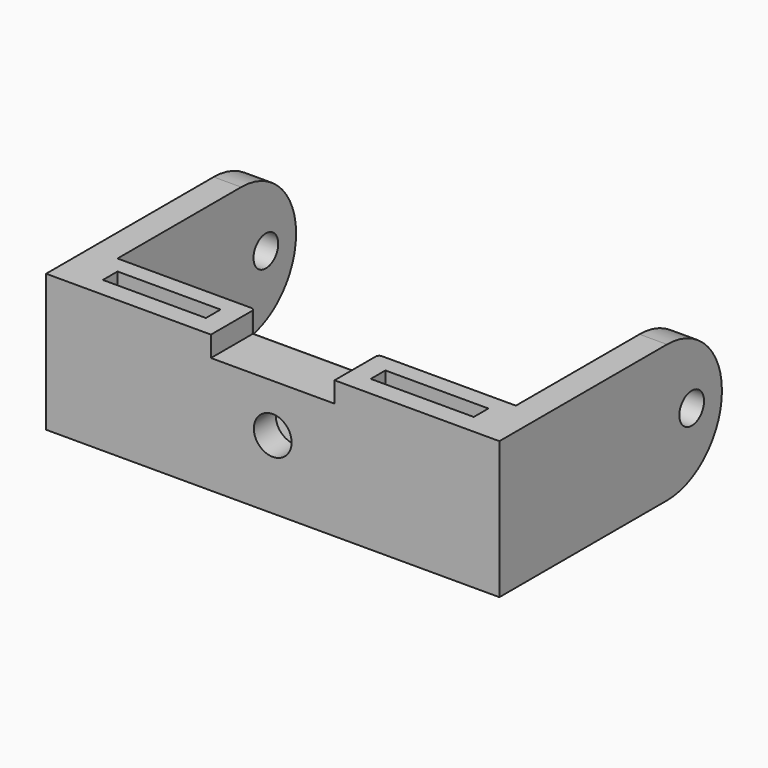
from build123d import *

# Parameters (mm, degrees)
SKETCH005_W             = 58
SKETCH005_H             = 20
SKETCH005_R             = 2.75
PAD004_DEPTH            = 8
SKETCH006_R             = 2.25
PAD005_DEPTH            = 4
POCKET005_DEPTH         = 4
SKETCH011_W             = 15
SKETCH011_H             = 2.666667
POCKET007_DEPTH         = 20
SKETCH012_W             = 18
SKETCH012_H             = 3
POCKET008_DEPTH         = 8
FILLET_R                = 0.5
BODY002_PLACEMENT_ANGLE = 180


with BuildPart() as part:
    # Sketch005 → Pad004 (new body)
    with BuildSketch(Plane.XZ):
        Rectangle(SKETCH005_W, SKETCH005_H)
        Circle(SKETCH005_R, mode=Mode.SUBTRACT)
    extrude(amount=PAD004_DEPTH)

    # Sketch006 (on Face4 of Pad004) → Pad005 (join)
    with BuildSketch(Plane(origin=(-29, 0, 0), x_dir=(0, 0, -1), z_dir=(-1, 0, 0))):
        with BuildLine():
            Line((-10, 0), (10, 0))
            Line((10, 0), (10, 30.5))
            ThreePointArc((10, 30.5), (0, 40.5), (-10, 30.5))
            Line((-10, 30.5), (-10, 0))
        make_face()
        with Locations((0, 35)):
            Circle(SKETCH006_R, mode=Mode.SUBTRACT)
    pad005 = extrude(amount=PAD005_DEPTH)

    # Mirrored003: Pad005 across YZ
    add(pad005.mirror(Plane.YZ))

    # Sketch007 (on Face5 of Mirrored003) → Pocket005 (cut)
    with BuildSketch(Plane.XZ.offset(8)):
        Polygon((2.374981, 4.113632), (-2.375019, 4.11361), (-4.75, -2.2e-05), (-2.374981, -4.113632), (2.375019, -4.11361), (4.75, 2.2e-05), align=None)
    extrude(amount=-POCKET005_DEPTH, mode=Mode.SUBTRACT)

    # Sketch011 (on Face14 of Pocket005) → Pocket007 (cut)
    with BuildSketch(Plane(origin=(0, 0, 10), x_dir=(-1, 0, 0), z_dir=(0, 0, 1))):
        with Locations((-19.5, 4.169504)):
            Rectangle(SKETCH011_W, SKETCH011_H)
    pocket007 = extrude(amount=-POCKET007_DEPTH, mode=Mode.SUBTRACT)

    # Mirrored004: Pocket007 across YZ
    add(pocket007.mirror(Plane.YZ), mode=Mode.SUBTRACT)

    # Sketch012 (on Face3 of Mirrored004) → Pocket008 (cut)
    with BuildSketch(Plane(origin=(0, 0, 0), x_dir=(1, 0, 0), z_dir=(0, 1, 0))):
        with Locations((0, 8.5)):
            Rectangle(SKETCH012_W, SKETCH012_H)
    extrude(amount=-POCKET008_DEPTH, mode=Mode.SUBTRACT)

    # Fillet
    fillet_edges = [part.edges().sort_by_distance(p)[0] for p in [
        (0, -8, -7),
        (9, -8, -8.5),
        (-9, -8, -8.5),
    ]]
    fillet(fillet_edges, radius=FILLET_R)


with BuildPart() as part_1:
    # Body002 placement: moved
    add(part.part.moved(Location((0, -15, -23))).rotate(Axis((0, -15, -23), (1, 0, 0)), BODY002_PLACEMENT_ANGLE))


solid = part_1.part
